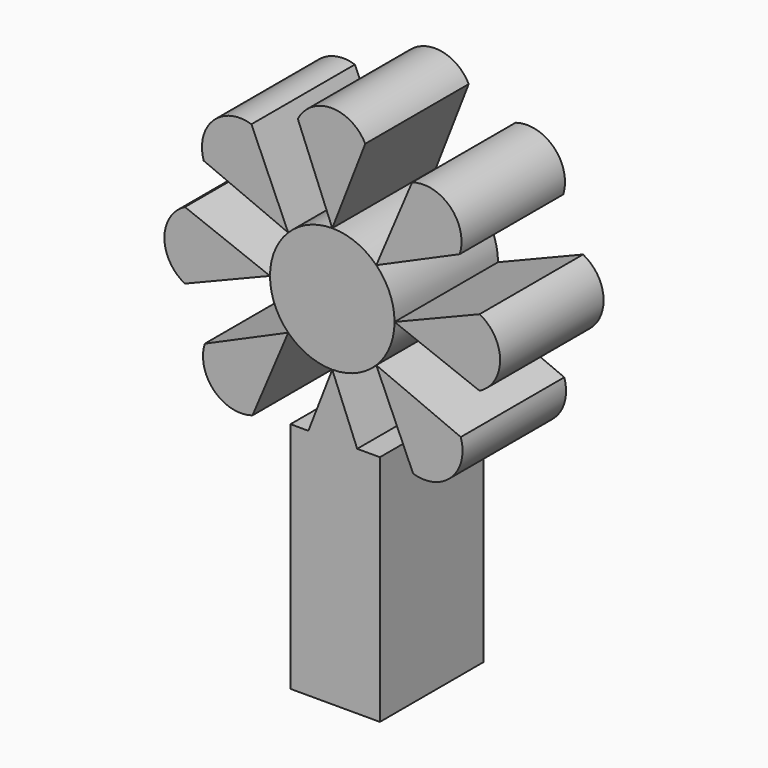
from build123d import *

# Parameters (mm, degrees)
F0_W      = 17.556151
F0_H      = 45.761111
F1_DEPTH  = 25.4
F3_DEPTH  = 25.4
F4_DEPTH  = 25.4
F5_DEPTH  = 25.4
F6_DEPTH  = 25.4
F7_DEPTH  = 25.4
F8_DEPTH  = 25.4
F9_DEPTH  = 25.4
F10_DEPTH = 25.4


with BuildPart() as f1:
    # F0 (on Front) → F1 (new body)
    with BuildSketch(Plane.XZ):
        with Locations((0.575611, -47.200142)):
            Rectangle(F0_W, F0_H)
    extrude(amount=F1_DEPTH)

    # F2 (on Front) → F9 (join)
    with BuildSketch(Plane.XZ):
        with BuildLine():
            Line((6.763435, -28.924476), (0, -12.225818))
            Line((0, -12.225818), (-6.47563, -28.924476))
            ThreePointArc((-6.47563, -28.924476), (0.143903, -32.959325), (6.763435, -28.924476))
        make_face()
    extrude(amount=F9_DEPTH)


with BuildPart() as f3:
    # F2 (on Front) → F3 (new body)
    with BuildSketch(Plane.XZ):
        with BuildLine():
            Line((25.235164, -15.670222), (8.644959, -8.644959))
            Line((8.644959, -8.644959), (15.873732, -25.031655))
            ThreePointArc((15.873732, -25.031655), (23.407517, -23.204007), (25.235164, -15.670222))
        make_face()
        with BuildLine():
            Line((28.924476, 6.763435), (12.225818, 0))
            Line((12.225818, 0), (28.924476, -6.47563))
            ThreePointArc((28.924476, -6.47563), (32.959325, 0.143903), (28.924476, 6.763435))
        make_face()
    extrude(amount=F3_DEPTH)


with BuildPart() as f4:
    # F2 (on Front) → F4 (new body)
    with BuildSketch(Plane.XZ):
        with BuildLine():
            Line((15.670222, 25.235164), (8.644959, 8.644959))
            Line((8.644959, 8.644959), (25.031655, 15.873732))
            ThreePointArc((25.031655, 15.873732), (23.204007, 23.407517), (15.670222, 25.235164))
        make_face()
    extrude(amount=F4_DEPTH)


with BuildPart() as f5:
    # F2 (on Front) → F5 (new body)
    with BuildSketch(Plane.XZ):
        with BuildLine():
            Line((-25.235164, 15.670222), (-8.644959, 8.644959))
            Line((-8.644959, 8.644959), (-15.873732, 25.031655))
            ThreePointArc((-15.873732, 25.031655), (-23.407517, 23.204007), (-25.235164, 15.670222))
        make_face()
    extrude(amount=F5_DEPTH)


with BuildPart() as f6:
    # F2 (on Front) → F6 (new body)
    with BuildSketch(Plane.XZ):
        with BuildLine():
            Line((-28.924476, -6.763435), (-12.225818, 0))
            Line((-12.225818, 0), (-28.924476, 6.47563))
            ThreePointArc((-28.924476, 6.47563), (-32.959325, -0.143903), (-28.924476, -6.763435))
        make_face()
    extrude(amount=F6_DEPTH)


with BuildPart() as f7:
    # F2 (on Front) → F7 (new body)
    with BuildSketch(Plane.XZ):
        with BuildLine():
            Line((-6.763435, 28.924476), (0, 12.225818))
            Line((0, 12.225818), (6.47563, 28.924476))
            ThreePointArc((6.47563, 28.924476), (-0.143903, 32.959325), (-6.763435, 28.924476))
        make_face()
    extrude(amount=F7_DEPTH)


with BuildPart() as f8:
    # F2 (on Front) → F8 (new body)
    with BuildSketch(Plane.XZ):
        with BuildLine():
            Line((-15.670222, -25.235164), (-8.644959, -8.644959))
            Line((-8.644959, -8.644959), (-25.031655, -15.873732))
            ThreePointArc((-25.031655, -15.873732), (-23.204007, -23.407517), (-15.670222, -25.235164))
        make_face()
    extrude(amount=F8_DEPTH)


with BuildPart() as f10:
    # F2 (on Front) → F10 (new body)
    with BuildSketch(Plane.XZ):
        with BuildLine():
            ThreePointArc((8.644959, -8.644959), (11.295183, -4.678618), (12.225818, 0))
            ThreePointArc((12.225818, 0), (11.295183, 4.678618), (8.644959, 8.644959))
            ThreePointArc((8.644959, 8.644959), (4.678618, 11.295183), (0, 12.225818))
            ThreePointArc((0, 12.225818), (-4.678618, 11.295183), (-8.644959, 8.644959))
            ThreePointArc((-8.644959, 8.644959), (-11.295183, 4.678618), (-12.225818, 0))
            ThreePointArc((-12.225818, 0), (-11.295183, -4.678618), (-8.644959, -8.644959))
            ThreePointArc((-8.644959, -8.644959), (-4.678618, -11.295183), (0, -12.225818))
            ThreePointArc((0, -12.225818), (4.678618, -11.295183), (8.644959, -8.644959))
        make_face()
    extrude(amount=F10_DEPTH)


solid = Compound([f1.part, f3.part, f4.part, f5.part, f6.part, f7.part, f8.part, f10.part])
